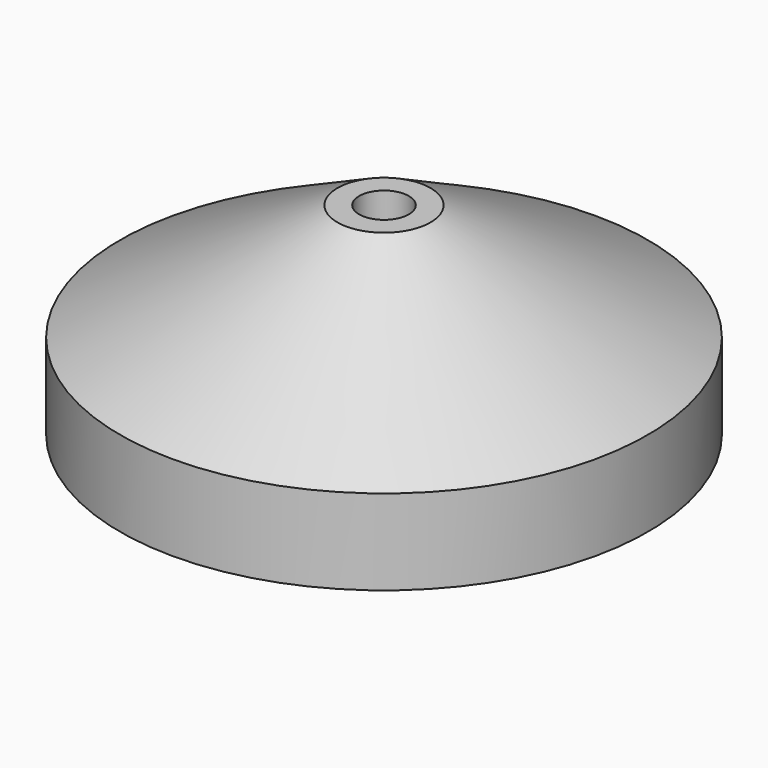
from build123d import *

# Parameters (mm, degrees)
SKETCH_W        = 12
SKETCH_H        = 12
POCKET_DEPTH    = 6
POCKET001_DEPTH = 3


with BuildPart() as part:
    # Sketch002 → Revolution (revolve)
    with BuildSketch(Plane.YZ):
        Polygon((1.6, 13), (1.6, 0), (17, 0), (17, 5.5), (3, 13), align=None)
    revolve(axis=Axis((0, 0, 0), (0, 0, 1)))

    # Sketch (on Face2 of Revolution) → Pocket (cut)
    with BuildSketch(Plane.YX):
        Rectangle(SKETCH_W, SKETCH_H)
    extrude(amount=-POCKET_DEPTH, mode=Mode.SUBTRACT)

    # Sketch003 (on Face2 of Pocket) → Pocket001 (cut)
    with BuildSketch(Plane.YX.offset(-6)):
        Polygon((3.1, 0), (1.55, 2.684679), (-1.55, 2.684679), (-3.1, 0), (-1.55, -2.684679), (1.55, -2.684679), align=None)
    extrude(amount=-POCKET001_DEPTH, mode=Mode.SUBTRACT)


solid = part.part
